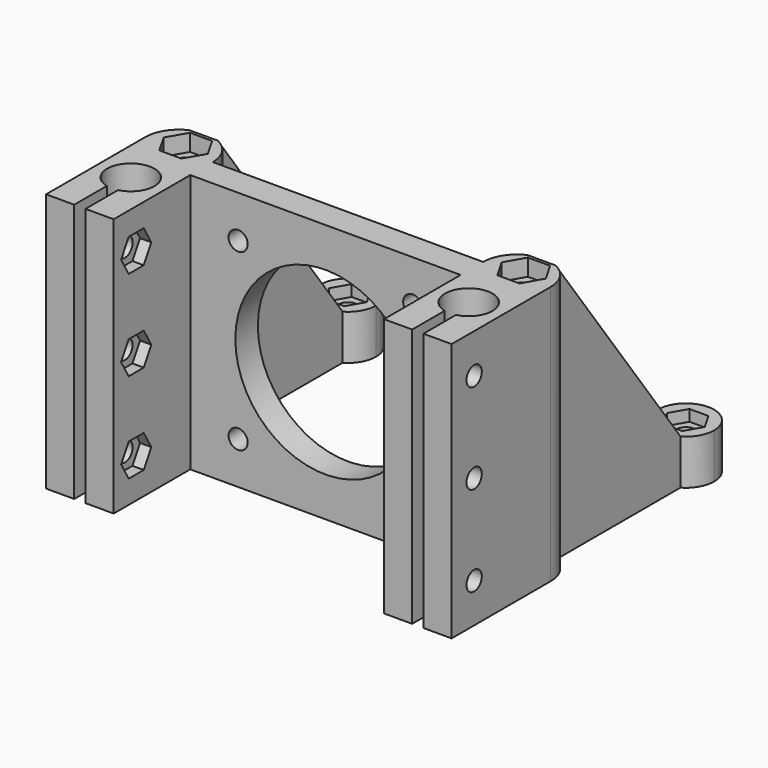
from build123d import *

# Parameters (mm, degrees)
F0_R      = 2.2
F0_R_2    = 1.7
F1_DEPTH  = 46
F3_DEPTH  = 3
F5_R      = 1.7
F6_DEPTH  = 78.501
F8_DEPTH  = 2
F10_DEPTH = 2
F12_DEPTH = 2
F13_R     = 16
F14_DEPTH = 5
F15_D     = 3.4


with BuildPart() as f1:
    # F0 (on Top) → F1 (new body)
    with BuildSketch(Plane.XY):
        with BuildLine():
            ThreePointArc((-31, -14.7792156109), (-30, -6.5), (-29, -14.7792156109))
            Line((-29, -14.7792156109), (-29, -22))
            Line((-29, -22), (-24, -22))
            Line((-24, -22), (-24, -5))
            Line((-24, -5), (0, -5))
            Line((0, -5), (0, 0))
            Line((0, 0), (-24, 0))
            ThreePointArc((-24, 0), (-24.9502475308, 3.2403703492), (-27.5, 5.4543560573))
            ThreePointArc((-27.5, 5.4543560573), (-30, 6), (-32.5, 5.4543560573))
            ThreePointArc((-32.5, 5.4543560573), (-35.0497524692, 3.2403703492), (-36, 0))
            Line((-36, 0), (-36, -22))
            Line((-36, -22), (-31, -22))
            Line((-31, -22), (-31, -14.7792156109))
        make_face()
        with Locations((-30, 1.5)):
            Circle(F0_R, mode=Mode.SUBTRACT)
        with BuildLine():
            Line((0, 0), (0, -5))
            Line((0, -5), (24, -5))
            Line((24, -5), (24, -22))
            Line((24, -22), (29, -22))
            Line((29, -22), (29, -14.7792156109))
            ThreePointArc((29, -14.7792156109), (30, -6.5), (31, -14.7792156109))
            Line((31, -14.7792156109), (31, -22))
            Line((31, -22), (36, -22))
            Line((36, -22), (36, 0))
            ThreePointArc((36, 0), (35.0497524692, 3.2403703492), (32.5, 5.4543560573))
            ThreePointArc((32.5, 5.4543560573), (30, 6), (27.5, 5.4543560573))
            ThreePointArc((27.5, 5.4543560573), (24.9502475308, 3.2403703492), (24, 0))
            Line((24, 0), (0, 0))
        make_face()
        with Locations((30, 1.5)):
            Circle(F0_R, mode=Mode.SUBTRACT)
        with BuildLine():
            Line((-32.5, 33.1698729811), (-32.5, 5.4543560573))
            ThreePointArc((-32.5, 5.4543560573), (-30, 6), (-27.5, 5.4543560573))
            Line((-27.5, 5.4543560573), (-27.5, 33.1698729811))
            ThreePointArc((-27.5, 33.1698729811), (-30, 32.5), (-32.5, 33.1698729811))
        make_face()
        with BuildLine():
            ThreePointArc((-25, 37.5), (-32.5, 41.8301270189), (-32.5, 33.1698729811))
            Line((-32.5, 33.1698729811), (-27.5, 33.1698729811))
            ThreePointArc((-27.5, 33.1698729811), (-25.6698729811, 35), (-25, 37.5))
        make_face()
        with Locations((-30, 37.5)):
            Circle(F0_R_2, mode=Mode.SUBTRACT)
        with BuildLine():
            Line((-27.5, 33.1698729811), (-32.5, 33.1698729811))
            ThreePointArc((-32.5, 33.1698729811), (-30, 32.5), (-27.5, 33.1698729811))
        make_face()
        with BuildLine():
            Line((27.5, 33.1698729811), (27.5, 5.4543560573))
            ThreePointArc((27.5, 5.4543560573), (30, 6), (32.5, 5.4543560573))
            Line((32.5, 5.4543560573), (32.5, 33.1698729811))
            ThreePointArc((32.5, 33.1698729811), (30, 32.5), (27.5, 33.1698729811))
        make_face()
        with BuildLine():
            ThreePointArc((35, 37.5), (27.5, 41.8301270189), (27.5, 33.1698729811))
            ThreePointArc((27.5, 33.1698729811), (30, 32.5), (32.5, 33.1698729811))
            ThreePointArc((32.5, 33.1698729811), (34.3301270189, 35), (35, 37.5))
        make_face()
        with Locations((30, 37.5)):
            Circle(F0_R_2, mode=Mode.SUBTRACT)
    extrude(amount=F1_DEPTH)

    # F2 (on face) → F3 (cut)
    with BuildSketch(Plane.XY.offset(46)):
        Polygon((-28.0536441704, -1.9095501636), (-26.0740650281, 1.4808185114), (-28.0204208576, 4.890368675), (-31.9463558296, 4.9095501636), (-33.9259349719, 1.5191814886), (-31.9795791424, -1.890368675), align=None)
        Polygon((33.9259349719, 1.5191814886), (31.9463558296, 4.9095501636), (28.0204208576, 4.890368675), (26.0740650281, 1.4808185114), (28.0536441704, -1.9095501636), (31.9795791424, -1.890368675), align=None)
    extrude(amount=-F3_DEPTH, mode=Mode.SUBTRACT)

    # F5 (on offset) → F6 (cut, through all)
    with BuildSketch(Plane(origin=(-42.5, 0, 0), x_dir=(0, -1, 0), z_dir=(-1, 0, 0))):
        Polygon((-43.1698729811, 46), (-43.1698729811, 8), (-33.1698729811, 8), (-5.4543560573, 46), align=None)
        with Locations((17, 39)):
            Circle(F5_R)
        with Locations((17, 23)):
            Circle(F5_R)
        with Locations((17, 7)):
            Circle(F5_R)
    extrude(amount=-F6_DEPTH, mode=Mode.SUBTRACT)

    # F7 (on face) → F8 (cut)
    with BuildSketch(Plane.XY.offset(8)):
        Polygon((-28.3256842194, 34.6), (-26.6513684387, 37.5), (-28.3256842194, 40.4), (-31.6743157806, 40.4), (-33.3486315613, 37.5), (-31.6743157806, 34.6), align=None)
        Polygon((28.3256842194, 40.4), (26.6513684387, 37.5), (28.3256842194, 34.6), (31.6743157806, 34.6), (33.3486315613, 37.5), (31.6743157806, 40.4), align=None)
    extrude(amount=-F8_DEPTH, mode=Mode.SUBTRACT)

    # F9 (on face) → F10 (cut)
    with BuildSketch(Plane(origin=(24, 0, 0), x_dir=(0, -1, 0), z_dir=(-1, 0, 0))):
        Polygon((15.3256842194, 36.1), (18.6743157806, 36.1), (20.3486315613, 39), (18.6743157806, 41.9), (15.3256842194, 41.9), (13.6513684387, 39), align=None)
        Polygon((15.3256842194, 20.1), (18.6743157806, 20.1), (20.3486315613, 23), (18.6743157806, 25.9), (15.3256842194, 25.9), (13.6513684387, 23), align=None)
        Polygon((15.3256842194, 4.1), (18.6743157806, 4.1), (20.3486315613, 7), (18.6743157806, 9.9), (15.3256842194, 9.9), (13.6513684387, 7), align=None)
    extrude(amount=-F10_DEPTH, mode=Mode.SUBTRACT)

    # F11 (on face) → F12 (cut)
    with BuildSketch(Plane.YZ.offset(-24)):
        Polygon((-18.6743157806, 36.1), (-15.3256842194, 36.1), (-13.6513684387, 39), (-15.3256842194, 41.9), (-18.6743157806, 41.9), (-20.3486315613, 39), align=None)
        Polygon((-18.6743157806, 20.1), (-15.3256842194, 20.1), (-13.6513684387, 23), (-15.3256842194, 25.9), (-18.6743157806, 25.9), (-20.3486315613, 23), align=None)
        Polygon((-18.6743157806, 4.1), (-15.3256842194, 4.1), (-13.6513684387, 7), (-15.3256842194, 9.9), (-18.6743157806, 9.9), (-20.3486315613, 7), align=None)
    extrude(amount=-F12_DEPTH, mode=Mode.SUBTRACT)

    # F13 (on face) → F14 (cut, through all)
    with BuildSketch(Plane(origin=(0, 0, 0), x_dir=(-1, 0, 0), z_dir=(0, 1, 0))):
        with Locations((0, 23)):
            Circle(F13_R)
    extrude(amount=-F14_DEPTH, mode=Mode.SUBTRACT)

    # F15 (through all)
    with Locations(Plane(origin=(0, 0, 0), x_dir=(-1, 0, 0), z_dir=(0, 1, 0))):
        with Locations((-15.5, 38.5), (15.5, 38.5), (15.5, 7.5), (-15.5, 7.5)):
            Hole(F15_D / 2)


solid = f1.part
